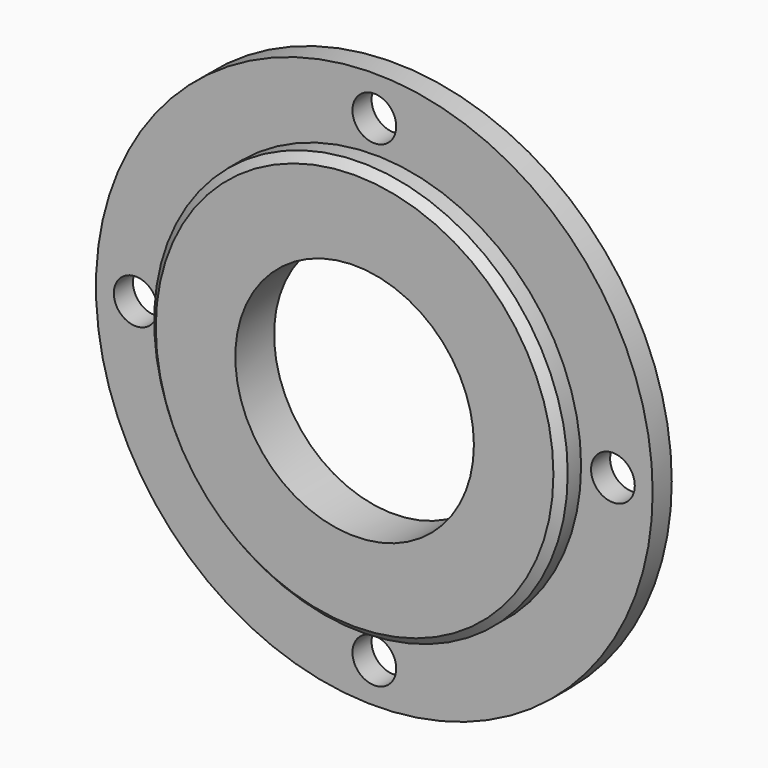
from build123d import *

# Parameters (mm, degrees)
F0_R     = 35
F1_DEPTH = 3
F2_R     = 2.75
F3_DEPTH = 3
F4_R     = 26
F5_DEPTH = 3.1
F6_R     = 15
F7_DEPTH = 6.1
F8_SIZE  = 1


with BuildPart() as f1:
    # F0 (on Front) → F1 (new body)
    with BuildSketch(Plane.XZ):
        Circle(F0_R)
    extrude(amount=F1_DEPTH)

    # F2 (on face) → F3 (cut, through all)
    with BuildSketch(Plane.XZ.offset(3)):
        with Locations((30, 0)):
            Circle(F2_R)
        with Locations((0, 30)):
            Circle(F2_R)
        with Locations((-30, 0)):
            Circle(F2_R)
        with Locations((0, -30)):
            Circle(F2_R)
    extrude(amount=-F3_DEPTH, mode=Mode.SUBTRACT)

    # F4 (on face) → F5 (join)
    with BuildSketch(Plane.XZ.offset(3)):
        Circle(F4_R)
    extrude(amount=F5_DEPTH)

    # F6 (on face) → F7 (cut, through all)
    with BuildSketch(Plane.XZ.offset(6.1)):
        Circle(F6_R)
    extrude(amount=-F7_DEPTH, mode=Mode.SUBTRACT)

    # F8
    f8_edges = [f1.edges().sort_by_distance(p)[0] for p in [
        (-26, -6.1, 0),
    ]]
    chamfer(f8_edges, length=F8_SIZE)


solid = f1.part
